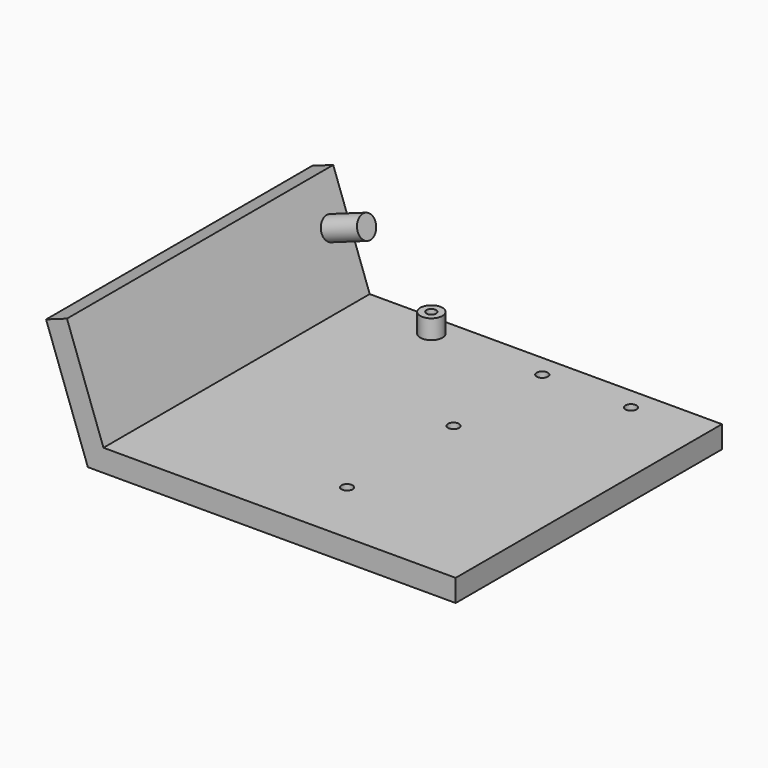
from build123d import *

# Parameters (mm, degrees)
F1_DEPTH = 190.5
F2_R     = 3.175
F3_DEPTH = 12.701
F4_R     = 6.35
F5_DEPTH = 10.9982
F6_R     = 6.35
F7_DEPTH = 21.9964
F9_D     = 5.5118
F9_DEPTH = 12.7
F9_TIP   = 1.65591178


with BuildPart() as f1:
    # F0 (on Front) → F1 (new body)
    with BuildSketch(Plane.XZ):
        Polygon((-134.9451830515, 63.2994985103), (-111.0356246655, -3.3842598282), (99.5049753345, -3.3842598282), (99.5049753345, 9.3157401718), (-102.0975527369, 9.3157401718), (-122.9904038585, 67.5859019499), align=None)
    extrude(amount=F1_DEPTH)

    # F2 (on face) → F3 (cut, through all)
    with BuildSketch(Plane.XY.offset(9.3157401718)):
        with Locations((6.8430472631, -152.4)):
            Circle(F2_R)
        with Locations((6.8430472631, -76.2)):
            Circle(F2_R)
        with Locations((6.8430472631, -12.7)):
            Circle(F2_R)
        with Locations((57.6430472631, -12.7)):
            Circle(F2_R)
    extrude(amount=-F3_DEPTH, mode=Mode.SUBTRACT)

    # F4 (on face) → F5 (join)
    with BuildSketch(Plane.XY.offset(9.3157401718)):
        with Locations((-56.6569527369, -12.7)):
            Circle(F4_R)
    extrude(amount=F5_DEPTH)

    # F6 (on face) → F7 (join)
    with BuildSketch(Plane(origin=(-87.5074922841, 0, -31.375938431), x_dir=(0, 1, 0), z_dir=(0.9413211963, 0, 0.3375120819))):
        with Locations((-12.7, 79.7307893311)):
            Circle(F6_R)
    extrude(amount=F7_DEPTH)

    # F9
    with Locations(Plane.XY.offset(20.3139401718)):
        with Locations((-56.6569527369, -12.7)):
            Hole(F9_D / 2, depth=F9_DEPTH)
            with Locations((0, 0, -(F9_DEPTH + F9_TIP / 2))):  # 118° drill point
                Cone(0, F9_D / 2, F9_TIP, mode=Mode.SUBTRACT)


solid = f1.part
